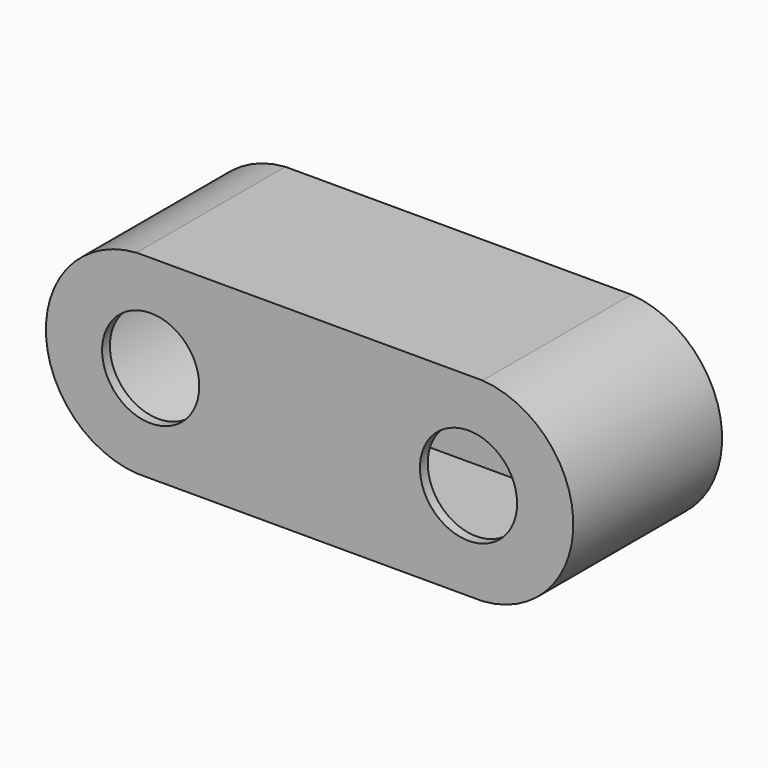
from build123d import *

# Parameters (mm, degrees)
F1_DEPTH = 67
F3_DEPTH = 60
F5_R     = 35
F6_DEPTH = 7


with BuildPart() as f1:
    # F0 (on Front) → F1 (new body)
    with BuildSketch(Plane.XZ):
        with BuildLine():
            Line((-115, 70), (-124.666667, 70))
            ThreePointArc((-124.666667, 70), (-190, 0), (-124.666667, -70))
            Line((-124.666667, -70), (-115, -70))
            Line((-115, -70), (115, -70))
            Line((115, -70), (124.666667, -70))
            ThreePointArc((124.666667, -70), (190, 0), (124.666667, 70))
            Line((124.666667, 70), (115, 70))
            Line((115, 70), (-115, 70))
        make_face()
    extrude(amount=-F1_DEPTH)

    # F2 (on face) → F3 (cut)
    with BuildSketch(Plane.XZ):
        with BuildLine():
            ThreePointArc((-114.5, 69.5), (-119.798333, 69.701667), (-125.096667, 69.5))
            Line((-125.096667, 69.5), (-114.5, 69.5))
        make_face()
        with BuildLine():
            Line((-114.5, 69.5), (-125.096667, 69.5))
            ThreePointArc((-125.096667, 69.5), (-189.5, 0), (-125.096667, -69.5))
            Line((-125.096667, -69.5), (-114.5, -69.5))
            Line((-114.5, -69.5), (114.5, -69.5))
            Line((114.5, -69.5), (125.096667, -69.5))
            ThreePointArc((125.096667, -69.5), (189.5, 0), (125.096667, 69.5))
            Line((125.096667, 69.5), (114.5, 69.5))
            Line((114.5, 69.5), (-114.5, 69.5))
        make_face()
        with BuildLine():
            Line((-114.5, -69.5), (-125.096667, -69.5))
            ThreePointArc((-125.096667, -69.5), (-119.798333, -69.701667), (-114.5, -69.5))
        make_face()
        with BuildLine():
            ThreePointArc((125.096667, 69.5), (119.798333, 69.701667), (114.5, 69.5))
            Line((114.5, 69.5), (125.096667, 69.5))
        make_face()
        with BuildLine():
            Line((125.096667, -69.5), (114.5, -69.5))
            ThreePointArc((114.5, -69.5), (119.798333, -69.701667), (125.096667, -69.5))
        make_face()
    extrude(amount=-F3_DEPTH, mode=Mode.SUBTRACT)

    # F4: F1 across face


with BuildPart() as f1_1:
    add(f1.part)
    add(f1.part.mirror(Plane.XZ))

    # F5 (on face) → F6 (cut, through all)
    with BuildSketch(Plane.XZ.offset(67)):
        with Locations((-114.5, 0)):
            Circle(F5_R)
        with Locations((114.5, 0)):
            Circle(F5_R)
    extrude(amount=-F6_DEPTH, mode=Mode.SUBTRACT)


solid = f1_1.part
